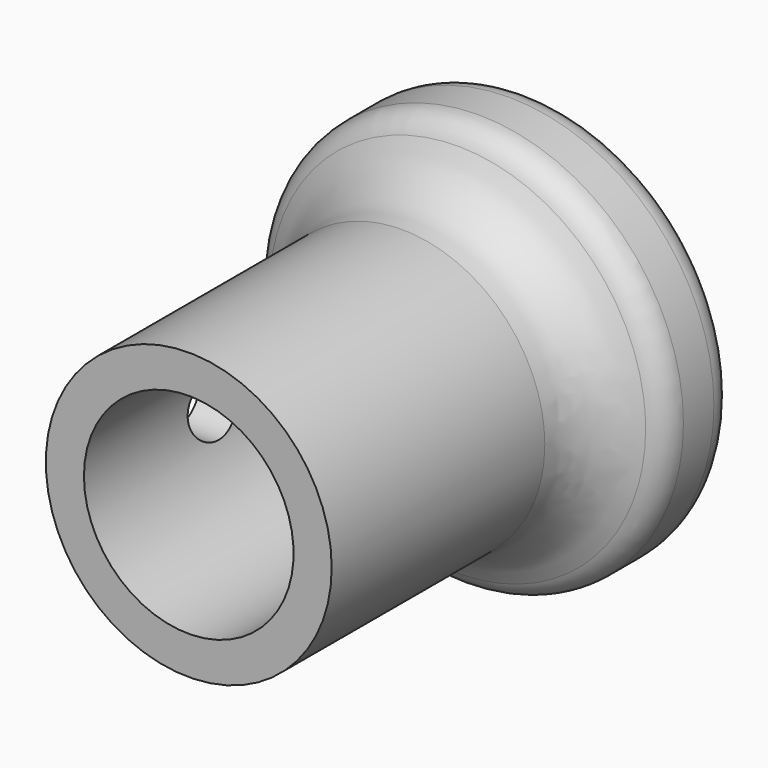
from build123d import *

# Parameters (mm, degrees)
F0_R     = 15
F1_DEPTH = 45
F2_R     = 21.5135879258
F3_DEPTH = 10
F4_D     = 22
F6_D     = 6.8
F6_DEPTH = 21.5145879258
F7_R     = 3
F8_R     = 8


with BuildPart() as f1:
    # F0 (on Front) → F1 (new body)
    with BuildSketch(Plane.XZ):
        Circle(F0_R)
    extrude(amount=F1_DEPTH)

    # F2 (on Front) → F3 (join)
    with BuildSketch(Plane.XZ):
        Circle(F2_R)
    extrude(amount=F3_DEPTH)

    # F4 (through all)
    with Locations(Plane(origin=(0, 0, 0), x_dir=(1, 0, 0), z_dir=(0, 1, 0))):
        with Locations((0, 0)):
            Hole(F4_D / 2)

    # F6 (through all, one way)
    with BuildSketch(Plane.YZ):
        with Locations((-28, 0)):
            Circle(F6_D / 2)
    extrude(amount=-F6_DEPTH, mode=Mode.SUBTRACT)

    # F7
    f7_edges = [f1.edges().sort_by_distance(p)[0] for p in [
        (21.513588, -5, 0),
        (-21.513588, 0, 0),
        (-21.513588, -10, 0),
    ]]
    fillet(f7_edges, radius=F7_R)

    # F8
    f8_edges = [f1.edges().sort_by_distance(p)[0] for p in [
        (-15, -10, 0),
    ]]
    fillet(f8_edges, radius=F8_R)


solid = f1.part
